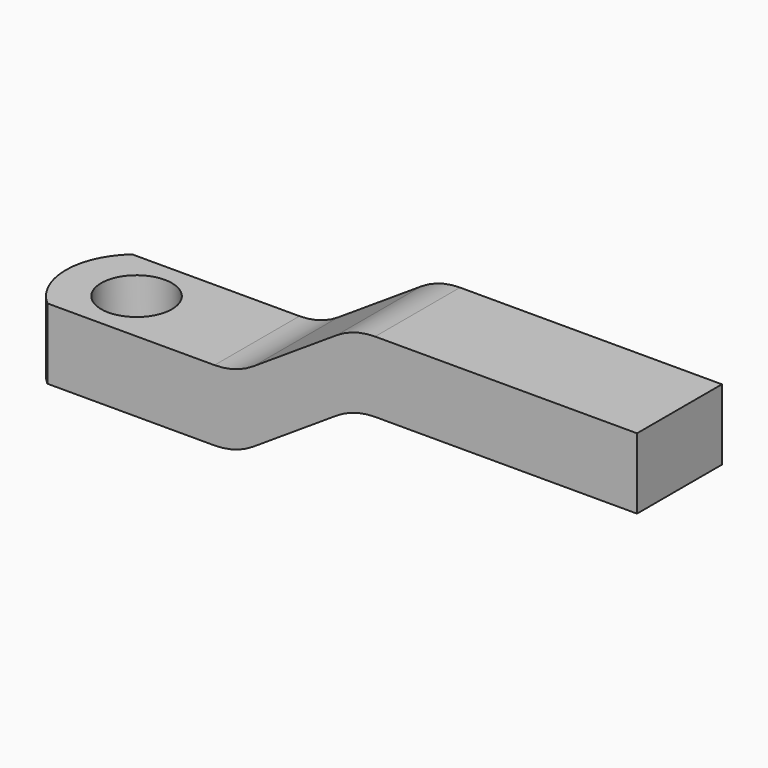
from build123d import *

# Parameters (mm, degrees)
F1_DEPTH = 7.5
F2_R     = 5
F3_DEPTH = 10.001
F5_DEPTH = 10.001


with BuildPart() as f1:
    # F0 (on Front) → F1 (new body, symmetric)
    with BuildSketch(Plane.XZ):
        with BuildLine():
            Line((0, 10), (0, 0))
            Line((0, 0), (27.023239, 0))
            ThreePointArc((27.023239, 0), (29.876277, 0.415629), (32.492154, 1.627965))
            Line((32.492154, 1.627965), (44.251915, 9.309865))
            ThreePointArc((44.251915, 9.309865), (46.867792, 10.522202), (49.72083, 10.937831))
            Line((49.72083, 10.937831), (86.744069, 10.937831))
            Line((86.744069, 10.937831), (86.744069, 20.937831))
            Line((86.744069, 20.937831), (49.72083, 20.937831))
            ThreePointArc((49.72083, 20.937831), (46.867792, 20.522202), (44.251915, 19.309865))
            Line((44.251915, 19.309865), (32.492154, 11.627965))
            ThreePointArc((32.492154, 11.627965), (29.876277, 10.415629), (27.023239, 10))
            Line((27.023239, 10), (0, 10))
        make_face()
    extrude(amount=F1_DEPTH, both=True)

    # F2 (on face) → F3 (cut, through all)
    with BuildSketch(Plane.XY.offset(10)):
        with Locations((10, 0)):
            Circle(F2_R)
    extrude(amount=-F3_DEPTH, mode=Mode.SUBTRACT)

    # F4 (on face) → F5 (cut, through all)
    with BuildSketch(Plane.XY.offset(10)):
        with BuildLine():
            ThreePointArc((3.385622, -7.5), (0.885622, -4.114378), (0, 0))
            Line((0, 0), (0, -7.5))
            Line((0, -7.5), (3.385622, -7.5))
        make_face()
        with BuildLine():
            ThreePointArc((0, 0), (0.885622, 4.114378), (3.385622, 7.5))
            Line((3.385622, 7.5), (0, 7.5))
            Line((0, 7.5), (0, 0))
        make_face()
    extrude(amount=-F5_DEPTH, mode=Mode.SUBTRACT)


solid = f1.part
